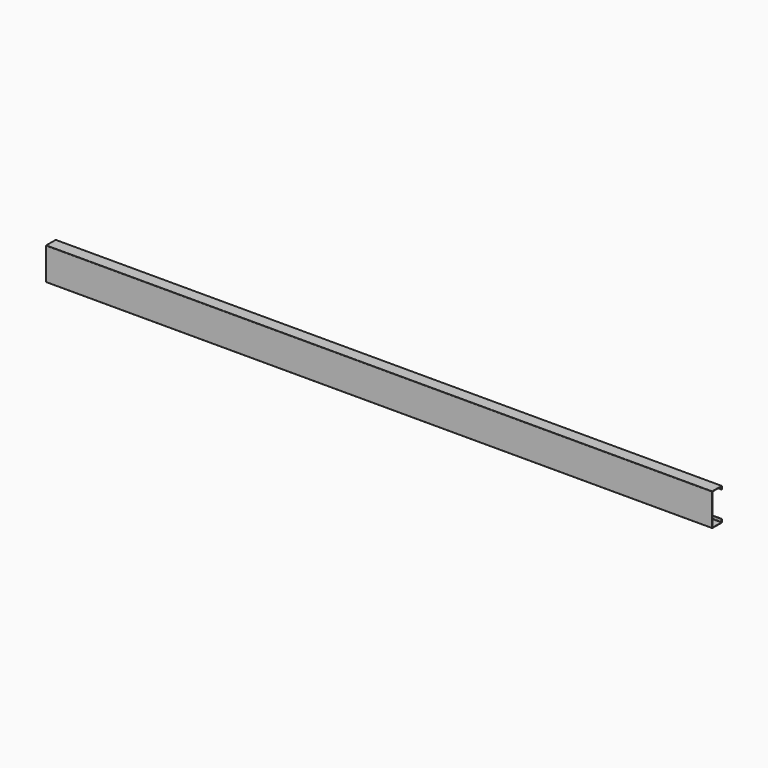
from build123d import *

# Parameters (mm, degrees)
F1_DEPTH = 4105


with BuildPart() as f1:
    # F0 (on Right) → F1 (new body)
    with BuildSketch(Plane.YZ):
        with BuildLine():
            Line((-73.6, 0), (-2.4, 0))
            ThreePointArc((-2.4, 0), (-0.702944, 0.702944), (0, 2.4))
            Line((0, 2.4), (0, 20))
            Line((0, 20), (-2.4, 20))
            Line((-2.4, 20), (-2.4, 4.8))
            ThreePointArc((-2.4, 4.8), (-3.102944, 3.102944), (-4.8, 2.4))
            Line((-4.8, 2.4), (-71.2, 2.4))
            ThreePointArc((-71.2, 2.4), (-72.897056, 3.102944), (-73.6, 4.8))
            Line((-73.6, 4.8), (-73.6, 195.2))
            ThreePointArc((-73.6, 195.2), (-72.897056, 196.897056), (-71.2, 197.6))
            Line((-71.2, 197.6), (-4.8, 197.6))
            ThreePointArc((-4.8, 197.6), (-3.102944, 196.897056), (-2.4, 195.2))
            Line((-2.4, 195.2), (-2.4, 180))
            Line((-2.4, 180), (0, 180))
            Line((0, 180), (0, 197.6))
            ThreePointArc((0, 197.6), (-0.702944, 199.297056), (-2.4, 200))
            Line((-2.4, 200), (-73.6, 200))
            ThreePointArc((-73.6, 200), (-75.297056, 199.297056), (-76, 197.6))
            Line((-76, 197.6), (-76, 2.4))
            ThreePointArc((-76, 2.4), (-75.297056, 0.702944), (-73.6, 0))
        make_face()
    extrude(amount=F1_DEPTH)


solid = f1.part
